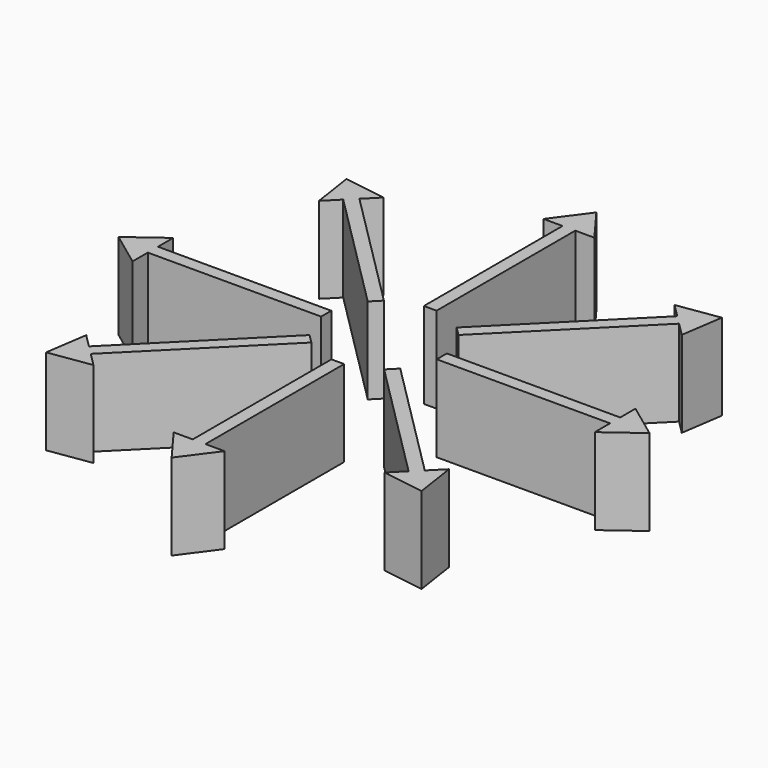
from build123d import *

# Parameters (mm, degrees)
F1_DEPTH = 0.5
F0_W     = 0.073666525
F0_H     = 1.0048788058
F0_W_2   = 1.0048788058
F0_H_2   = 0.073666525


with BuildPart() as f1:
    # F0 (on Top) → F1 (new body)
    with BuildSketch(Plane.XY):
        Polygon((0.9735095352, -0.9214194358), (0.9214194358, -0.9735095352), (0.8432842867, -1.0516446842), (1.0883771669, -1.0883771669), (1.0516446842, -0.8432842867), align=None)
        Polygon((0.210862818, -0.2629529173), (0.9214194358, -0.9735095352), (0.9735095352, -0.9214194358), (0.2629529173, -0.210862818), align=None)
    extrude(amount=F1_DEPTH)


with BuildPart() as f1b:
    # F0 (on Top) → F1, piece 2 (new body)
    with BuildSketch(Plane.XY):
        Polygon((-0.210862818, 0.2629529173), (-0.9214194358, 0.9735095352), (-0.9735095352, 0.9214194358), (-0.2629529173, 0.210862818), align=None)
        Polygon((-0.9735095352, 0.9214194358), (-0.9214194358, 0.9735095352), (-0.8432842867, 1.0516446842), (-1.0883771669, 1.0883771669), (-1.0516446842, 0.8432842867), align=None)
    extrude(amount=F1_DEPTH)


with BuildPart() as f1c:
    # F0 (on Top) → F1, piece 3 (new body)
    with BuildSketch(Plane.XY):
        Polygon((-0.9214194358, -0.9735095352), (-0.9735095352, -0.9214194358), (-1.0516446842, -0.8432842867), (-1.0883771669, -1.0883771669), (-0.8432842867, -1.0516446842), align=None)
        Polygon((-0.2629529173, -0.210862818), (-0.9735095352, -0.9214194358), (-0.9214194358, -0.9735095352), (-0.210862818, -0.2629529173), align=None)
    extrude(amount=F1_DEPTH)


with BuildPart() as f1d:
    # F0 (on Top) → F1, piece 4 (new body)
    with BuildSketch(Plane.XY):
        with Locations((0, -0.8374777224)):
            Rectangle(F0_W, F0_H)
        Polygon((0.0368332625, -1.3399171252), (-0.0368332625, -1.3399171252), (-0.14733305, -1.3399171252), (0, -1.5391977504), (0.14733305, -1.3399171252), align=None)
    extrude(amount=F1_DEPTH)


with BuildPart() as f1e:
    # F0 (on Top) → F1, piece 5 (new body)
    with BuildSketch(Plane.XY):
        Polygon((-1.3399171252, -0.0368332625), (-1.3399171252, 0.0368332625), (-1.3399171252, 0.14733305), (-1.5391977504, 0), (-1.3399171252, -0.14733305), align=None)
        with Locations((-0.8374777224, 0)):
            Rectangle(F0_W_2, F0_H_2)
    extrude(amount=F1_DEPTH)


with BuildPart() as f1f:
    # F0 (on Top) → F1, piece 6 (new body)
    with BuildSketch(Plane.XY):
        with Locations((0, 0.8374777224)):
            Rectangle(F0_W, F0_H)
        Polygon((-0.14733305, 1.3399171252), (-0.0368332625, 1.3399171252), (0.0368332625, 1.3399171252), (0.14733305, 1.3399171252), (0, 1.5391977504), align=None)
    extrude(amount=F1_DEPTH)


with BuildPart() as f1g:
    # F0 (on Top) → F1, piece 7 (new body)
    with BuildSketch(Plane.XY):
        Polygon((0.9735095352, 0.9214194358), (0.9214194358, 0.9735095352), (0.210862818, 0.2629529173), (0.2629529173, 0.210862818), align=None)
        Polygon((1.0883771669, 1.0883771669), (0.8432842867, 1.0516446842), (0.9214194358, 0.9735095352), (0.9735095352, 0.9214194358), (1.0516446842, 0.8432842867), align=None)
    extrude(amount=F1_DEPTH)


with BuildPart() as f1h:
    # F0 (on Top) → F1, piece 8 (new body)
    with BuildSketch(Plane.XY):
        Polygon((1.5391977504, 0), (1.3399171252, 0.14733305), (1.3399171252, 0.0368332625), (1.3399171252, -0.0368332625), (1.3399171252, -0.14733305), align=None)
        with Locations((0.8374777224, 0)):
            Rectangle(F0_W_2, F0_H_2)
    extrude(amount=F1_DEPTH)


solid = Compound([f1.part, f1b.part, f1c.part, f1d.part, f1e.part, f1f.part, f1g.part, f1h.part])
